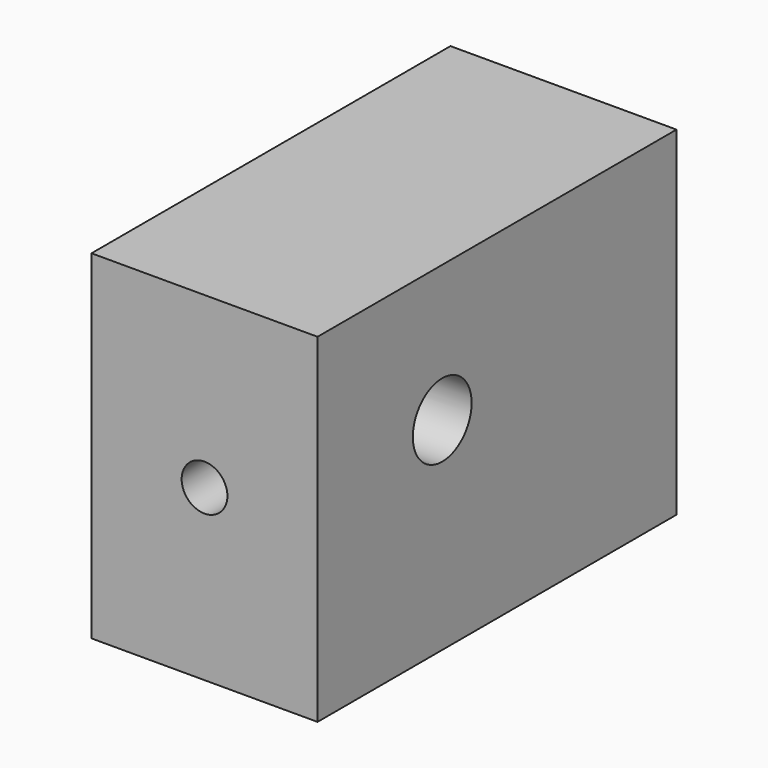
from build123d import *

# Parameters (mm, degrees)
F0_W     = 50.8
F0_H     = 76.2
F0_R     = 5.143163
F1_DEPTH = 100.838
F2_R     = 8.256562
F3_DEPTH = 98.044


with BuildPart() as f1:
    # F0 (on Front) → F1 (new body)
    with BuildSketch(Plane.XZ):
        with Locations((25.4, 38.1)):
            Rectangle(F0_W, F0_H)
        with Locations((25.4, 38.1)):
            Circle(F0_R, mode=Mode.SUBTRACT)
    extrude(amount=-F1_DEPTH)

    # F2 (on face) → F3 (cut)
    with BuildSketch(Plane.YZ.offset(50.8)):
        with Locations((35.024539, 45.509376)):
            Circle(F2_R)
    extrude(amount=-F3_DEPTH, mode=Mode.SUBTRACT)


solid = f1.part
